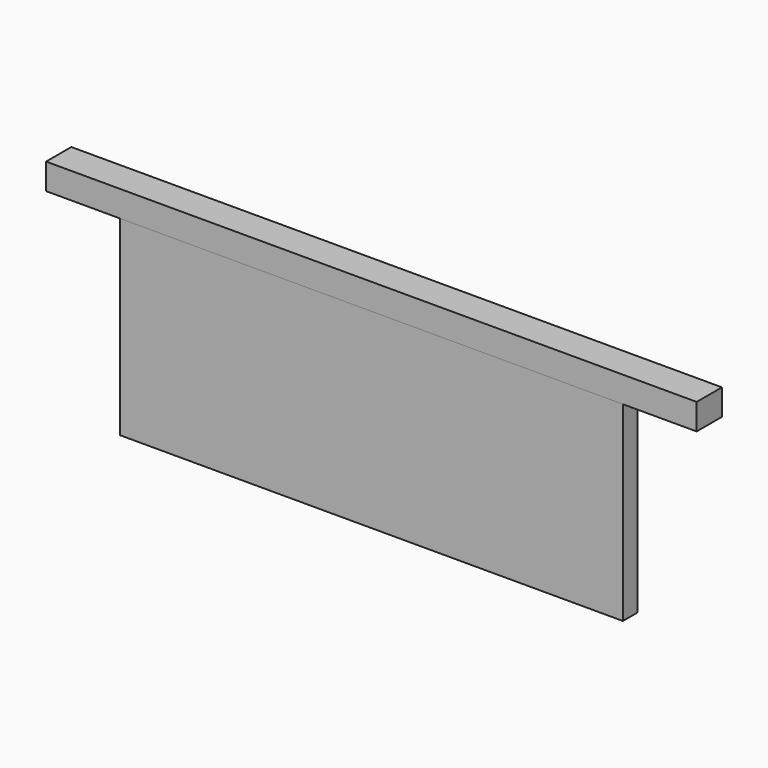
from build123d import *

# Parameters (mm, degrees)
SKETCH001_W  = 116
SKETCH001_H  = 4.2
PAD_DEPTH    = 44
SKETCH_W     = 150
SKETCH_H     = 7.278401
PAD001_DEPTH = 6


with BuildPart() as part:
    # Sketch001 → Pad (new body)
    with BuildSketch(Plane.XY):
        with Locations((0, 2.1)):
            Rectangle(SKETCH001_W, SKETCH001_H)
    extrude(amount=PAD_DEPTH)

    # Sketch → Pad001 (new body)
    with BuildSketch(Plane.XY.offset(44)):
        with Locations((0, 3.6392)):
            Rectangle(SKETCH_W, SKETCH_H)
    extrude(amount=PAD001_DEPTH)


solid = part.part
